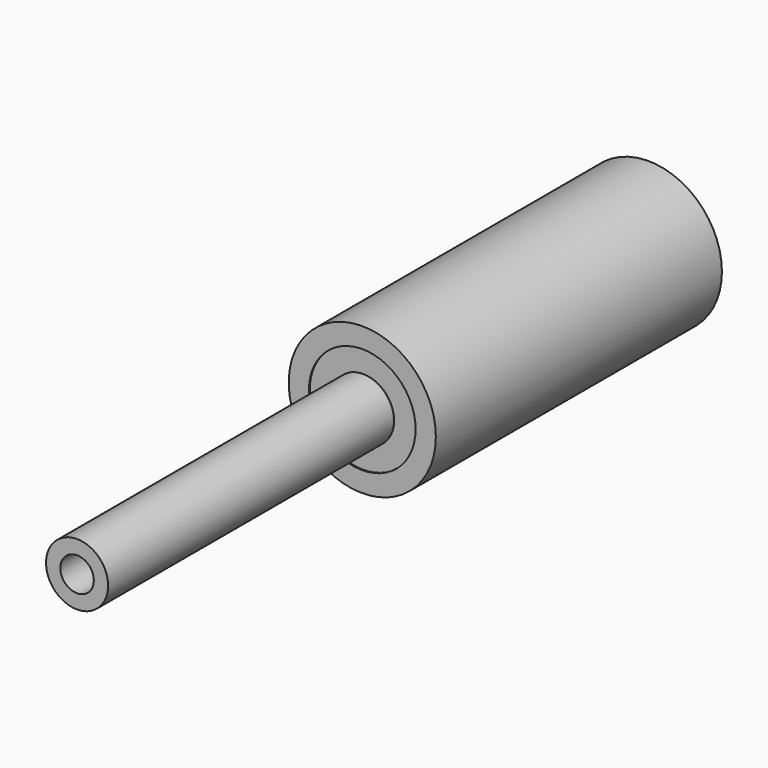
from build123d import *

# Parameters (mm, degrees)
F0_R        = 35.1191473408
F0_R_2      = 25.4596723579
F2_DEPTH    = 170.688
F1_R        = 14.8144691806
F1_R_2      = 7.992932925
F1_R_3      = 25.4596723579
F2_FACE_R   = 14.8144691806
F2_FACE_R_2 = 7.992932925
F3_DEPTH    = 170.18
F4_DEPTH    = 34.544


with BuildPart() as f2:
    # F0 (on Front) → F2 (new body)
    with BuildSketch(Plane.XZ):
        Circle(F0_R)
        Circle(F0_R_2, mode=Mode.SUBTRACT)
    extrude(amount=F2_DEPTH)


with BuildPart() as f2b:
    # F1 (on face) → F2, piece 2 (new body)
    with BuildSketch(Plane.XZ):
        Circle(F1_R)
        Circle(F1_R_2, mode=Mode.SUBTRACT)
    extrude(amount=F2_DEPTH)


with BuildPart() as f3:
    # F1 (on face) + F2_face (on face) → F3 (new body)
    with BuildSketch(Plane.XZ):
        Circle(F1_R_3)
        Circle(F1_R, mode=Mode.SUBTRACT)
        Circle(F1_R)
        Circle(F1_R_2, mode=Mode.SUBTRACT)
    with BuildSketch(Plane.XZ.offset(170.688)):
        Circle(F2_FACE_R)
        Circle(F2_FACE_R_2, mode=Mode.SUBTRACT)
    extrude(amount=F3_DEPTH)


with BuildPart() as f4:
    # F1 (on face) → F4 (new body)
    with BuildSketch(Plane.XZ):
        Circle(F1_R_2)
    extrude(amount=F4_DEPTH)


solid = Compound([f2.part, f2b.part, f3.part, f4.part])
